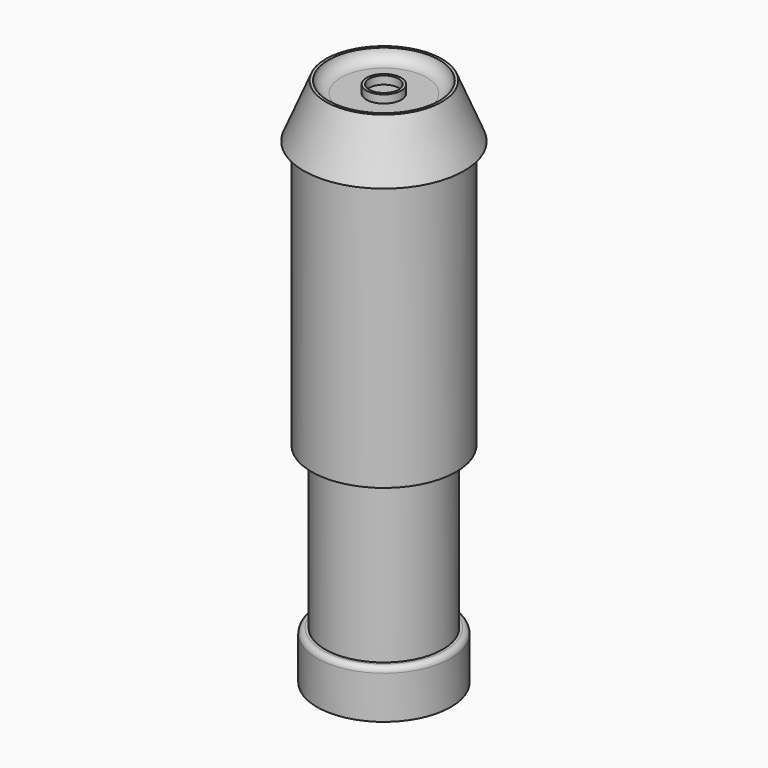
from build123d import *

# Parameters (mm, degrees)
F0_R     = 11
F1_DEPTH = 90
F0_R_2   = 12.5
F2_DEPTH = 10
F3_START = 40
F0_R_3   = 13.5
F3_DEPTH = 50
F4_W     = 0.5
F4_H     = 3
F6_R     = 1
F7_SIZE2 = 5
F7_SIZE  = 1


with BuildPart() as f1:
    # F0 (on Top) → F1 (new body)
    with BuildSketch(Plane.XY):
        Circle(F0_R)
    extrude(amount=F1_DEPTH)

    # F0 (on Top) → F2 (join)
    with BuildSketch(Plane.XY):
        Circle(F0_R_2)
        Circle(F0_R, mode=Mode.SUBTRACT)
    extrude(amount=F2_DEPTH)

    # F0 (on Top) → F3 (join)
    with BuildSketch(Plane.XY.offset(F3_START)):
        Circle(F0_R_3)
        Circle(F0_R_2, mode=Mode.SUBTRACT)
        Circle(F0_R_2)
        Circle(F0_R, mode=Mode.SUBTRACT)
    extrude(amount=F3_DEPTH)

    # F4 (on Front) → F5 (revolve)
    with BuildSketch(Plane.XZ):
        with BuildLine():
            Line((-15, 90), (0, 90))
            Line((0, 90), (0, 97.8694483638))
            Line((0, 97.8694483638), (-2.75, 97.8694483638))
            Line((-2.75, 97.8694483638), (-2.75, 99.3694483638))
            Line((-2.75, 99.3694483638), (-3.25, 99.3694483638))
            Line((-3.25, 99.3694483638), (-3.25, 97.8694483638))
            Line((-3.25, 97.8694483638), (-8, 97.8694483638))
            ThreePointArc((-8, 97.8694483638), (-9.5836049581, 98.4817025568), (-10.343494907, 100))
            Line((-10.343494907, 100), (-10.843494907, 100))
            Line((-10.843494907, 100), (-15, 90))
        make_face()
        with Locations((-3, -1.5)):
            Rectangle(F4_W, F4_H)
    revolve(axis=Axis((0, 0, 93.9347241819), (0, 0, 1)))

    # F6
    f6_edges = [f1.edges().sort_by_distance(p)[0] for p in [
        (-12.5, 0, 10),
    ]]
    fillet(f6_edges, radius=F6_R)

    # F7
    f7_edges = [f1.edges().sort_by_distance(p)[0] for p in [
        (-12.5, 0, 0),
    ]]
    f7_side = f1.faces().sort_by_distance((-12.5, 0, 4.5))[0]
    chamfer(f7_edges, length=F7_SIZE, length2=F7_SIZE2, reference=f7_side)


solid = f1.part
